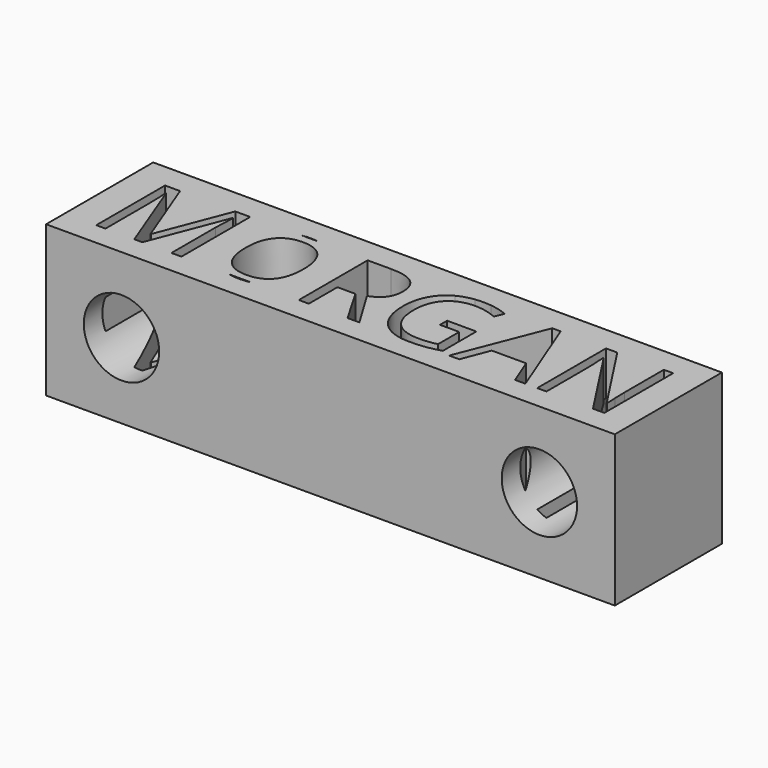
from build123d import *

# Parameters (mm, degrees)
F0_W     = 191.5914043784
F0_H     = 45.1144501567
F1_DEPTH = 50.8
F3_D     = 25.4


with BuildPart() as f1:
    # F0 (on Top) → F1 (new body)
    with BuildSketch(Plane.XY):
        with Locations((194.2830868065, -15.9631557763)):
            Rectangle(F0_W, F0_H)
        with BuildLine():
            Line((105.1491209349, -30.703663826), (105.1491209349, -1.4835632518))
            Line((105.1491209349, -1.4835632518), (154.8423363173, -1.4835632518))
            add(Edge.make_bspline(
                [(154.8423363173, -1.4835632518), (156.1726057608, -1.274304719), (157.6603303218, -1.274304719)],
                knots=[0.7681683189, 0.7681683189, 0.7681683189, 1, 1, 1], degree=2))
            add(Edge.make_bspline(
                [(157.6603303218, -1.274304719), (159.0955633757, -1.274304719), (160.3861569318, -1.4835632518)],
                knots=[0, 0, 0, 0.2297825059, 0.2297825059, 0.2297825059], degree=2))
            Line((160.3861569318, -1.4835632518), (213.3067658477, -1.4835632518))
            add(Edge.make_bspline(
                [(213.3067658477, -1.4835632518), (214.5866905914, -1.3186928926), (215.973708117, -1.3186928926)],
                knots=[0.6966266356, 0.6966266356, 0.6966266356, 1, 1, 1], degree=2))
            add(Edge.make_bspline(
                [(215.973708117, -1.3186928926), (217.4194793994, -1.3186928926), (218.8031167032, -1.4835632518)],
                knots=[0, 0, 0, 0.3114721904, 0.3114721904, 0.3114721904], degree=2))
            Line((218.8031167032, -1.4835632518), (282.9491209349, -1.4835632518))
            Line((282.9491209349, -1.4835632518), (282.9491209349, -30.703663826))
            Line((282.9491209349, -30.703663826), (280.3175363562, -30.703663826))
            Line((280.3175363562, -30.703663826), (276.4747887547, -30.703663826))
            Line((276.4747887547, -30.703663826), (260.7994223008, -30.703663826))
            Line((260.7994223008, -30.703663826), (257.6859089801, -30.703663826))
            Line((257.6859089801, -30.703663826), (253.70365569, -30.703663826))
            Line((253.70365569, -30.703663826), (250.2160134774, -30.703663826))
            Line((250.2160134774, -30.703663826), (231.4334748705, -30.703663826))
            Line((231.4334748705, -30.703663826), (228.0219266697, -30.703663826))
            Line((228.0219266697, -30.703663826), (220.5123925199, -30.703663826))
            add(Edge.make_bspline(
                [(220.5123925199, -30.703663826), (220.4434675206, -30.7149116505), (220.3744784726, -30.7258579128)],
                knots=[0.9709878678, 0.9709878678, 0.9709878678, 1, 1, 1], degree=2))
            add(Edge.make_bspline(
                [(220.3744784726, -30.7258579128), (217.9965406003, -31.1031573885), (214.8640037766, -31.1031573885)],
                knots=[0, 0, 0, 1, 1, 1], degree=2))
            add(Edge.make_bspline(
                [(214.8640037766, -31.1031573885), (212.76361453, -31.1031573885), (210.9601767736, -30.703663826)],
                knots=[0, 0, 0, 0.319412416, 0.319412416, 0.319412416], degree=2))
            Line((210.9601767736, -30.703663826), (197.78723927, -30.703663826))
            Line((197.78723927, -30.703663826), (193.80498598, -30.703663826))
            Line((193.80498598, -30.703663826), (180.7421806018, -30.703663826))
            Line((180.7421806018, -30.703663826), (177.3750205747, -30.703663826))
            Line((177.3750205747, -30.703663826), (161.3107818391, -30.703663826))
            add(Edge.make_bspline(
                [(161.3107818391, -30.703663826), (159.6038286944, -31.1031573885), (157.6222833158, -31.1031573885)],
                knots=[0.6833950988, 0.6833950988, 0.6833950988, 1, 1, 1], degree=2))
            add(Edge.make_bspline(
                [(157.6222833158, -31.1031573885), (155.5786066043, -31.1031573885), (153.8328518128, -30.703663826)],
                knots=[0, 0, 0, 0.319412416, 0.319412416, 0.319412416], degree=2))
            Line((153.8328518128, -30.703663826), (137.8251578834, -30.703663826))
            Line((137.8251578834, -30.703663826), (134.4579978563, -30.703663826))
            Line((134.4579978563, -30.703663826), (124.6672349903, -30.703663826))
            Line((124.6672349903, -30.703663826), (121.9532152321, -30.703663826))
            Line((121.9532152321, -30.703663826), (112.2448875457, -30.703663826))
            Line((112.2448875457, -30.703663826), (109.1313742249, -30.703663826))
            Line((109.1313742249, -30.703663826), (105.1491209349, -30.703663826))
        make_face(mode=Mode.SUBTRACT)
        with BuildLine():
            Line((282.9491209349, -1.4835632518), (218.8031167032, -1.4835632518))
            add(Edge.make_bspline(
                [(218.8031167032, -1.4835632518), (221.8617292906, -1.8480189906), (224.6167196367, -3.0181258253)],
                knots=[0.3114721904, 0.3114721904, 0.3114721904, 1, 1, 1], degree=2))
            Line((224.6167196367, -3.0181258253), (223.3104390989, -5.9921334576))
            add(Edge.make_bspline(
                [(223.3104390989, -5.9921334576), (219.3852563177, -4.3307475308), (215.7581084166, -4.3307475308)],
                knots=[0, 0, 0, 1, 1, 1], degree=2))
            add(Edge.make_bspline(
                [(215.7581084166, -4.3307475308), (210.4695745887, -4.3307475308), (207.4955669565, -7.4791372737)],
                knots=[0, 0, 0, 1, 1, 1], degree=2))
            add(Edge.make_bspline(
                [(207.4955669565, -7.4791372737), (204.5215593243, -10.6275270165), (204.5215593243, -16.2204368921)],
                knots=[0, 0, 0, 1, 1, 1], degree=2))
            add(Edge.make_bspline(
                [(204.5215593243, -16.2204368921), (204.5215593243, -22.086016977), (207.3845965224, -25.1170951181)],
                knots=[0, 0, 0, 1, 1, 1], degree=2))
            add(Edge.make_bspline(
                [(207.3845965224, -25.1170951181), (210.2476337206, -28.1481732593), (215.7961554225, -28.1481732593)],
                knots=[0, 0, 0, 1, 1, 1], degree=2))
            add(Edge.make_bspline(
                [(215.7961554225, -28.1481732593), (218.8082100607, -28.1481732593), (221.6807590104, -27.4506448168)],
                knots=[0, 0, 0, 1, 1, 1], degree=2))
            Line((221.6807590104, -27.4506448168), (221.6807590104, -18.5349630877))
            Line((221.6807590104, -18.5349630877), (215.2064268302, -18.5349630877))
            Line((215.2064268302, -18.5349630877), (215.2064268302, -15.5229084495))
            Line((215.2064268302, -15.5229084495), (225.0542602052, -15.5229084495))
            Line((225.0542602052, -15.5229084495), (225.0542602052, -29.6129829886))
            add(Edge.make_bspline(
                [(225.0542602052, -29.6129829886), (222.8191977433, -30.3272178249), (220.5123925199, -30.703663826)],
                knots=[0, 0, 0, 0.9709878678, 0.9709878678, 0.9709878678], degree=2))
            Line((220.5123925199, -30.703663826), (228.0219266697, -30.703663826))
            Line((228.0219266697, -30.703663826), (239.4740754625, -1.610386605))
            Line((239.4740754625, -1.610386605), (242.3085774062, -1.610386605))
            Line((242.3085774062, -1.610386605), (253.70365569, -30.703663826))
            Line((253.70365569, -30.703663826), (257.6859089801, -30.703663826))
            Line((257.6859089801, -30.703663826), (257.6859089801, -1.7308687905))
            Line((257.6859089801, -1.7308687905), (261.4906095757, -1.7308687905))
            Line((261.4906095757, -1.7308687905), (277.2864582151, -25.9477880815))
            Line((277.2864582151, -25.9477880815), (277.4449874066, -25.9477880815))
            add(Edge.make_bspline(
                [(277.4449874066, -25.9477880815), (277.4069404006, -25.4151299981), (277.2674347121, -22.5108752101)],
                knots=[0, 0, 0, 1, 1, 1], degree=2))
            add(Edge.make_bspline(
                [(277.2674347121, -22.5108752101), (277.1279290236, -19.6066204222), (277.1659760296, -18.3574103933)],
                knots=[0, 0, 0, 1, 1, 1], degree=2))
            Line((277.1659760296, -18.3574103933), (277.1659760296, -1.7308687905))
            Line((277.1659760296, -1.7308687905), (280.3175363562, -1.7308687905))
            Line((280.3175363562, -1.7308687905), (280.3175363562, -30.703663826))
            Line((280.3175363562, -30.703663826), (282.9491209349, -30.703663826))
            Line((282.9491209349, -30.703663826), (282.9491209349, -1.4835632518))
        make_face()
        with BuildLine():
            Line((160.3861569318, -1.4835632518), (154.8423363173, -1.4835632518))
            add(Edge.make_bspline(
                [(147.7554264379, -5.1677816619), (150.4345226935, -2.1769360238), (154.8423363173, -1.4835632518)],
                knots=[0, 0, 0, 0.7681683189, 0.7681683189, 0.7681683189], degree=2))
            add(Edge.make_bspline(
                [(144.2677842253, -16.1380017125), (144.2677842253, -9.0612586047), (147.7554264379, -5.1677816619)],
                knots=[0, 0, 0, 1, 1, 1], degree=2))
            add(Edge.make_bspline(
                [(147.7459146864, -27.1874863589), (144.2677842253, -23.2718153293), (144.2677842253, -16.1380017125)],
                knots=[0, 0, 0, 1, 1, 1], degree=2))
            add(Edge.make_bspline(
                [(153.8328518128, -30.703663826), (150.1130870938, -29.8524434447), (147.7459146864, -27.1874863589)],
                knots=[0.319412416, 0.319412416, 0.319412416, 1, 1, 1], degree=2))
            Line((153.8328518128, -30.703663826), (161.3107818391, -30.703663826))
            add(Edge.make_bspline(
                [(167.4003638465, -27.1177335146), (164.9952586377, -29.8413526566), (161.3107818391, -30.703663826)],
                knots=[0, 0, 0, 0.6833950988, 0.6833950988, 0.6833950988], degree=2))
            add(Edge.make_bspline(
                [(170.9197118975, -16.1760487185), (170.9197118975, -23.1323096407), (167.4003638465, -27.1177335146)],
                knots=[0, 0, 0, 1, 1, 1], degree=2))
            add(Edge.make_bspline(
                [(167.4130461818, -5.2375345061), (170.9197118975, -9.2007642932), (170.9197118975, -16.1760487185)],
                knots=[0, 0, 0, 1, 1, 1], degree=2))
            add(Edge.make_bspline(
                [(160.3861569318, -1.4835632518), (164.7121509016, -2.1849855908), (167.4130461818, -5.2375345061)],
                knots=[0.2297825059, 0.2297825059, 0.2297825059, 1, 1, 1], degree=2))
        make_face()
        with BuildLine():
            add(Edge.make_bspline(
                [(147.8315204498, -16.1760487185), (147.8315204498, -22.0606523063), (150.3394522591, -25.1044127828)],
                knots=[0, 0, 0, 1, 1, 1], degree=2))
            add(Edge.make_bspline(
                [(150.3394522591, -7.3301198337), (147.8315204498, -10.3738803102), (147.8315204498, -16.1760487185)],
                knots=[0, 0, 0, 1, 1, 1], degree=2))
            add(Edge.make_bspline(
                [(157.6603303218, -4.2863593572), (152.8473840684, -4.2863593572), (150.3394522591, -7.3301198337)],
                knots=[0, 0, 0, 1, 1, 1], degree=2))
            add(Edge.make_bspline(
                [(164.9019437888, -7.3079257469), (162.4542530723, -4.2863593572), (157.6603303218, -4.2863593572)],
                knots=[0, 0, 0, 1, 1, 1], degree=2))
            add(Edge.make_bspline(
                [(167.3496345053, -16.1760487185), (167.3496345053, -10.3294921366), (164.9019437888, -7.3079257469)],
                knots=[0, 0, 0, 1, 1, 1], degree=2))
            add(Edge.make_bspline(
                [(164.8924320373, -25.1170951181), (167.3496345053, -22.086016977), (167.3496345053, -16.1760487185)],
                knots=[0, 0, 0, 1, 1, 1], degree=2))
            add(Edge.make_bspline(
                [(157.6222833158, -28.1481732593), (162.4352295693, -28.1481732593), (164.8924320373, -25.1170951181)],
                knots=[0, 0, 0, 1, 1, 1], degree=2))
            add(Edge.make_bspline(
                [(150.3394522591, -25.1044127828), (152.8473840684, -28.1481732593), (157.6222833158, -28.1481732593)],
                knots=[0, 0, 0, 1, 1, 1], degree=2))
        make_face(mode=Mode.SUBTRACT)
        with BuildLine():
            Line((154.8423363173, -1.4835632518), (105.1491209349, -1.4835632518))
            Line((105.1491209349, -1.4835632518), (105.1491209349, -30.703663826))
            Line((105.1491209349, -30.703663826), (109.1313742249, -30.703663826))
            Line((109.1313742249, -30.703663826), (109.1313742249, -1.7308687905))
            Line((109.1313742249, -1.7308687905), (114.2043083524, -1.7308687905))
            Line((114.2043083524, -1.7308687905), (123.3799779554, -25.6307296985))
            Line((123.3799779554, -25.6307296985), (123.5385071469, -25.6307296985))
            Line((123.5385071469, -25.6307296985), (132.7902707619, -1.7308687905))
            Line((132.7902707619, -1.7308687905), (137.8251578834, -1.7308687905))
            Line((137.8251578834, -1.7308687905), (137.8251578834, -30.703663826))
            Line((137.8251578834, -30.703663826), (153.8328518128, -30.703663826))
            add(Edge.make_bspline(
                [(153.8328518128, -30.703663826), (150.1130870938, -29.8524434447), (147.7459146864, -27.1874863589)],
                knots=[0.319412416, 0.319412416, 0.319412416, 1, 1, 1], degree=2))
            add(Edge.make_bspline(
                [(147.7459146864, -27.1874863589), (144.2677842253, -23.2718153293), (144.2677842253, -16.1380017125)],
                knots=[0, 0, 0, 1, 1, 1], degree=2))
            add(Edge.make_bspline(
                [(144.2677842253, -16.1380017125), (144.2677842253, -9.0612586047), (147.7554264379, -5.1677816619)],
                knots=[0, 0, 0, 1, 1, 1], degree=2))
            add(Edge.make_bspline(
                [(147.7554264379, -5.1677816619), (150.4345226935, -2.1769360238), (154.8423363173, -1.4835632518)],
                knots=[0, 0, 0, 0.7681683189, 0.7681683189, 0.7681683189], degree=2))
        make_face()
        with BuildLine():
            Line((213.3067658477, -1.4835632518), (160.3861569318, -1.4835632518))
            add(Edge.make_bspline(
                [(160.3861569318, -1.4835632518), (164.7121509016, -2.1849855908), (167.4130461818, -5.2375345061)],
                knots=[0.2297825059, 0.2297825059, 0.2297825059, 1, 1, 1], degree=2))
            add(Edge.make_bspline(
                [(167.4130461818, -5.2375345061), (170.9197118975, -9.2007642932), (170.9197118975, -16.1760487185)],
                knots=[0, 0, 0, 1, 1, 1], degree=2))
            add(Edge.make_bspline(
                [(170.9197118975, -16.1760487185), (170.9197118975, -23.1323096407), (167.4003638465, -27.1177335146)],
                knots=[0, 0, 0, 1, 1, 1], degree=2))
            add(Edge.make_bspline(
                [(167.4003638465, -27.1177335146), (164.9952586377, -29.8413526566), (161.3107818391, -30.703663826)],
                knots=[0, 0, 0, 0.6833950988, 0.6833950988, 0.6833950988], degree=2))
            Line((161.3107818391, -30.703663826), (177.3750205747, -30.703663826))
            Line((177.3750205747, -30.703663826), (177.3750205747, -1.7308687905))
            Line((177.3750205747, -1.7308687905), (185.3205036518, -1.7308687905))
            add(Edge.make_bspline(
                [(185.3205036518, -1.7308687905), (190.6534256533, -1.7308687905), (193.1994044685, -3.7727247768)],
                knots=[0, 0, 0, 1, 1, 1], degree=2))
            add(Edge.make_bspline(
                [(193.1994044685, -3.7727247768), (195.7453832837, -5.8145807631), (195.7453832837, -9.9173162387)],
                knots=[0, 0, 0, 1, 1, 1], degree=2))
            add(Edge.make_bspline(
                [(195.7453832837, -9.9173162387), (195.7453832837, -15.6624141381), (189.9178502048, -17.6852466214)],
                knots=[0, 0, 0, 1, 1, 1], degree=2))
            Line((189.9178502048, -17.6852466214), (197.78723927, -30.703663826))
            Line((197.78723927, -30.703663826), (210.9601767736, -30.703663826))
            add(Edge.make_bspline(
                [(210.9601767736, -30.703663826), (207.1175041535, -29.8524434447), (204.6230180068, -27.1874863589)],
                knots=[0.319412416, 0.319412416, 0.319412416, 1, 1, 1], degree=2))
            add(Edge.make_bspline(
                [(204.6230180068, -27.1874863589), (200.9578230997, -23.2718153293), (200.9578230997, -16.2204368921)],
                knots=[0, 0, 0, 1, 1, 1], degree=2))
            add(Edge.make_bspline(
                [(200.9578230997, -16.2204368921), (200.9578230997, -11.699184351), (202.7713970503, -8.3003184856)],
                knots=[0, 0, 0, 1, 1, 1], degree=2))
            add(Edge.make_bspline(
                [(202.7713970503, -8.3003184856), (204.5849710009, -4.9014526202), (207.9933486177, -3.1100727564)],
                knots=[0, 0, 0, 1, 1, 1], degree=2))
            add(Edge.make_bspline(
                [(207.9933486177, -3.1100727564), (210.3677152498, -1.8621498288), (213.3067658477, -1.4835632518)],
                knots=[0, 0, 0, 0.6966266356, 0.6966266356, 0.6966266356], degree=2))
        make_face()
        with BuildLine():
            Line((260.7994223008, -30.703663826), (276.4747887547, -30.703663826))
            Line((276.4747887547, -30.703663826), (260.6408931093, -6.3916270201))
            Line((260.6408931093, -6.3916270201), (260.4823639179, -6.3916270201))
            add(Edge.make_bspline(
                [(260.4823639179, -6.3916270201), (260.7994223008, -10.6719151902), (260.7994223008, -14.2356514147)],
                knots=[0, 0, 0, 1, 1, 1], degree=2))
            Line((260.7994223008, -14.2356514147), (260.7994223008, -30.703663826))
        make_face()
        Polygon((234.997211095, -21.489947217), (231.4334748705, -30.703663826), (250.2160134774, -30.703663826), (246.6078890792, -21.489947217), align=None)
        with BuildLine():
            Line((134.5784800418, -5.0599818117), (124.6672349903, -30.703663826))
            Line((124.6672349903, -30.703663826), (134.4579978563, -30.703663826))
            Line((134.4579978563, -30.703663826), (134.4579978563, -12.0352662369))
            add(Edge.make_bspline(
                [(134.4579978563, -12.0352662369), (134.4579978563, -8.8266354013), (134.7370092333, -5.0599818117)],
                knots=[0, 0, 0, 1, 1, 1], degree=2))
            Line((134.7370092333, -5.0599818117), (134.5784800418, -5.0599818117))
        make_face()
        with BuildLine():
            Line((112.2448875457, -12.276230608), (112.2448875457, -30.703663826))
            Line((112.2448875457, -30.703663826), (121.9532152321, -30.703663826))
            Line((121.9532152321, -30.703663826), (112.1244053601, -5.0219348057))
            Line((112.1244053601, -5.0219348057), (111.9658761687, -5.0219348057))
            add(Edge.make_bspline(
                [(111.9658761687, -5.0219348057), (112.2448875457, -8.0720364498), (112.2448875457, -12.276230608)],
                knots=[0, 0, 0, 1, 1, 1], degree=2))
        make_face()
        Polygon((180.7421806018, -18.6554452733), (180.7421806018, -30.703663826), (193.80498598, -30.703663826), (186.7916545488, -18.6554452733), align=None)
    extrude(amount=F1_DEPTH)

    # F3 (through all)
    with Locations(Plane(origin=(0, 6.5940693021, 0), x_dir=(-1, 0, 0), z_dir=(0, 1, 0))):
        with Locations((-123.8873846173, 25.4), (-264.6787889957, 25.4)):
            Hole(F3_D / 2)


with BuildPart() as f1b:
    # F0 (on Top) → F1, piece 2 (new body)
    with BuildSketch(Plane.XY):
        with BuildLine():
            Line((236.189350615, -18.4588690758), (245.5615964155, -18.4588690758))
            Line((245.5615964155, -18.4588690758), (242.1880952207, -9.4797756702))
            add(Edge.make_bspline(
                [(242.1880952207, -9.4797756702), (241.5349549518, -7.7740015698), (240.8437676769, -5.3009461827)],
                knots=[0, 0, 0, 1, 1, 1], degree=2))
            add(Edge.make_bspline(
                [(240.8437676769, -5.3009461827), (240.4062271084, -7.2032964805), (239.594557648, -9.4797756702)],
                knots=[0, 0, 0, 1, 1, 1], degree=2))
            Line((239.594557648, -9.4797756702), (236.189350615, -18.4588690758))
        make_face()
    extrude(amount=F1_DEPTH)


with BuildPart() as f1c:
    # F0 (on Top) → F1, piece 3 (new body)
    with BuildSketch(Plane.XY):
        with BuildLine():
            Line((180.7421806018, -4.6858529198), (180.7421806018, -15.7638728206))
            Line((180.7421806018, -15.7638728206), (185.3648918254, -15.7638728206))
            add(Edge.make_bspline(
                [(185.3648918254, -15.7638728206), (188.92862805, -15.7638728206), (190.5931845605, -14.3466218487)],
                knots=[0, 0, 0, 1, 1, 1], degree=2))
            add(Edge.make_bspline(
                [(190.5931845605, -14.3466218487), (192.2577410711, -12.9293708769), (192.2577410711, -10.0948689332)],
                knots=[0, 0, 0, 1, 1, 1], degree=2))
            add(Edge.make_bspline(
                [(192.2577410711, -10.0948689332), (192.2577410711, -7.2223199835), (190.5646493061, -5.9540864516)],
                knots=[0, 0, 0, 1, 1, 1], degree=2))
            add(Edge.make_bspline(
                [(190.5646493061, -5.9540864516), (188.871557541, -4.6858529198), (185.1239274544, -4.6858529198)],
                knots=[0, 0, 0, 1, 1, 1], degree=2))
            Line((185.1239274544, -4.6858529198), (180.7421806018, -4.6858529198))
        make_face()
    extrude(amount=F1_DEPTH)


solid = f1.part
